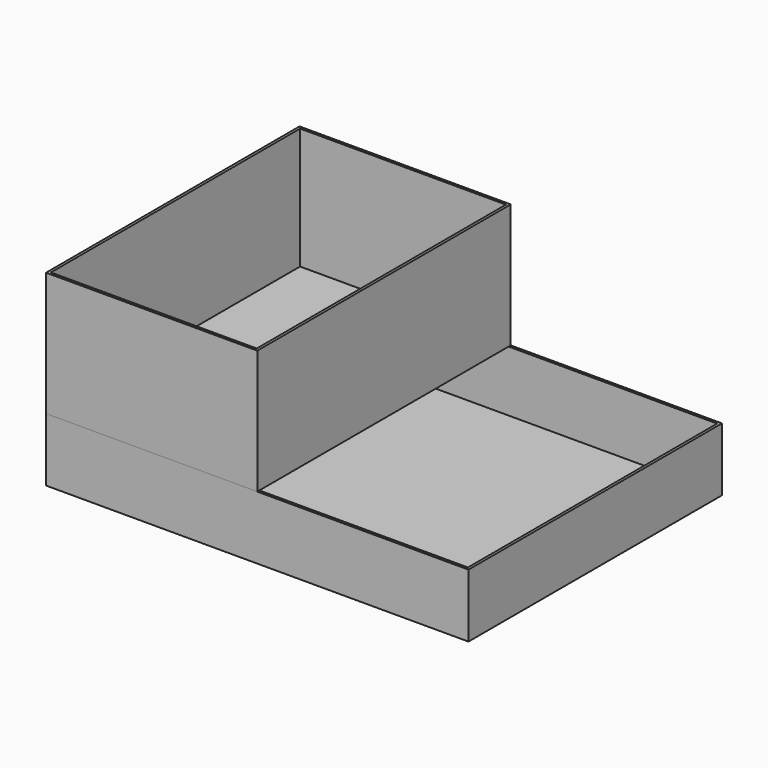
from build123d import *

# Parameters (mm, degrees)
F0_W     = 800
F0_H     = 600
F1_DEPTH = 120
F2_T     = -5
F3_W     = 400
F3_H     = 600
F4_DEPTH = 235
F5_T     = -5


with BuildPart() as f1:
    # F0 (on Top) → F1 (new body)
    with BuildSketch(Plane.XY):
        Rectangle(F0_W, F0_H)
    extrude(amount=F1_DEPTH)

    # F2
    f2_openings = [f1.faces().sort_by_distance(p)[0] for p in [
        (0, 0, 120),
    ]]
    offset(amount=F2_T, openings=f2_openings)


with BuildPart() as f4:
    # F3 (on face) → F4 (new body)
    with BuildSketch(Plane.XY.offset(120)):
        with Locations((-200, 0)):
            Rectangle(F3_W, F3_H)
    extrude(amount=F4_DEPTH)

    # F5
    f5_openings = [f4.faces().sort_by_distance(p)[0] for p in [
        (-200, 0, 355),
    ]]
    offset(amount=F5_T, openings=f5_openings)


solid = Compound([f1.part, f4.part])
